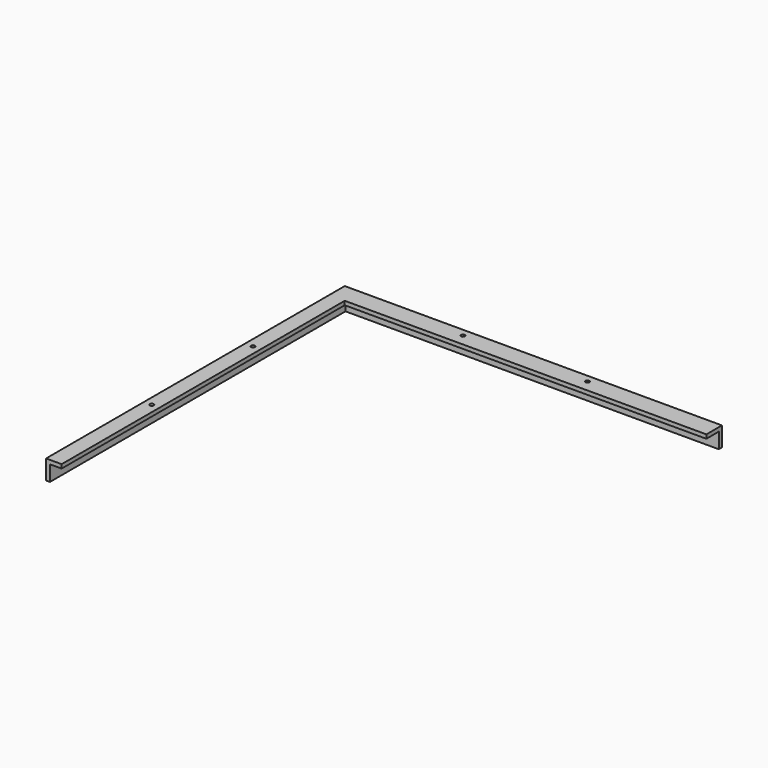
from build123d import *

# Parameters (mm, degrees)
F0_W             = 609.6
F0_H             = 6.35
F1_DEPTH         = 25.4
F2_W             = 6.35
F2_H             = 609.6
F3_DEPTH         = 25.4
F4_W             = 6.35
F4_H             = 31.75
F5_DEPTH         = 609.6
F6_W             = 25.4
F6_H             = 6.35
F7_DEPTH         = 590.55
F12_D            = 6.35
F12_DEPTH        = 6.35
F12_TIP          = 1.9077324654
F13_D            = 6.35
F13_DEPTH        = 6.35
F13_TIP          = 1.9077324654
F13_ON_F10_D     = 6.35
F13_ON_F10_DEPTH = 6.35
F13_ON_F10_TIP   = 1.9077324654
F13_ON_F9_D      = 6.35
F13_ON_F9_DEPTH  = 6.35
F13_ON_F9_TIP    = 1.9077324654


with BuildPart() as f1:
    # F0 (on Right) → F1 (new body)
    with BuildSketch(Plane.YZ):
        with Locations((257.997608562, 58.7304569781)):
            Rectangle(F0_W, F0_H)
    extrude(amount=F1_DEPTH)

    # F2 (on face) → F3 (join)
    with BuildSketch(Plane(origin=(0, 0, 55.5554569781), x_dir=(1, 0, 0), z_dir=(0, 0, -1))):
        with Locations((3.175, -257.997608562)):
            Rectangle(F2_W, F2_H)
    extrude(amount=F3_DEPTH)

    # F4 (on face) → F5 (join)
    with BuildSketch(Plane.YZ.offset(6.35)):
        with Locations((559.622608562, 46.0304569781)):
            Rectangle(F4_W, F4_H)
    extrude(amount=F5_DEPTH)

    # F6 (on face) → F7 (join)
    with BuildSketch(Plane.YZ.offset(25.4)):
        with Locations((543.747608562, 58.7304569781)):
            Rectangle(F6_W, F6_H)
    extrude(amount=F7_DEPTH)

    # F12
    with Locations(Plane.XY.offset(61.9054569781)):
        with Locations((12.7, 359.597608562), (12.7, 153.222608562)):
            Hole(F12_D / 2, depth=F12_DEPTH)
            with Locations((0, 0, -(F12_DEPTH + F12_TIP / 2))):  # 118° drill point
                Cone(0, F12_D / 2, F12_TIP, mode=Mode.SUBTRACT)

    # F13
    with Locations(Plane(origin=(0, 0, 0), x_dir=(0, -1, 0), z_dir=(-1, 0, 0))):
        with Locations((-359.597608562, 49.2054569781), (-156.397608562, 49.2054569781)):
            Hole(F13_D / 2, depth=F13_DEPTH)
            with Locations((0, 0, -(F13_DEPTH + F13_TIP / 2))):  # 118° drill point
                Cone(0, F13_D / 2, F13_TIP, mode=Mode.SUBTRACT)

    # F13 on F10
    with Locations(Plane(origin=(0, 562.797608562, 0), x_dir=(-1, 0, 0), z_dir=(0, 1, 0))):
        with Locations((-203.2, 49.2054569781), (-406.4, 49.2054569781)):
            Hole(F13_ON_F10_D / 2, depth=F13_ON_F10_DEPTH)
            with Locations((0, 0, -(F13_ON_F10_DEPTH + F13_ON_F10_TIP / 2))):  # 118° drill point
                Cone(0, F13_ON_F10_D / 2, F13_ON_F10_TIP, mode=Mode.SUBTRACT)

    # F13 on F9
    with Locations(Plane.XY.offset(61.9054569781)):
        with Locations((406.4, 550.097608562), (203.2, 550.097608562)):
            Hole(F13_ON_F9_D / 2, depth=F13_ON_F9_DEPTH)
            with Locations((0, 0, -(F13_ON_F9_DEPTH + F13_ON_F9_TIP / 2))):  # 118° drill point
                Cone(0, F13_ON_F9_D / 2, F13_ON_F9_TIP, mode=Mode.SUBTRACT)


solid = f1.part
